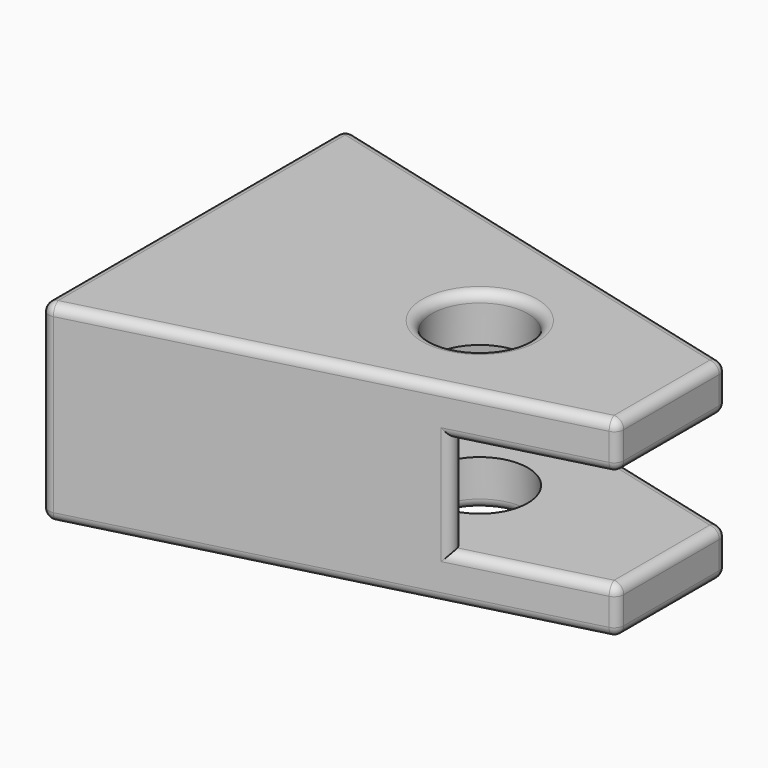
from build123d import *

# Parameters (mm, degrees)
SKETCH_R     = 2.5
PAD_DEPTH    = 10
SKETCH001_W  = 9
SKETCH001_H  = 5.15
POCKET_DEPTH = 16
FILLET_R     = 0.5
FILLET001_R  = 1


with BuildPart() as part:
    # Sketch → Pad (new body)
    with BuildSketch(Plane.XY):
        Polygon((-15, 10), (-15, -10), (10, -3.5), (10, 3.5), align=None)
        Circle(SKETCH_R, mode=Mode.SUBTRACT)
    extrude(amount=PAD_DEPTH)

    # Sketch001 (on Face3 of Pad) → Pocket (cut)
    with BuildSketch(Plane.YZ.offset(10)):
        with Locations((0, 5)):
            Rectangle(SKETCH001_W, SKETCH001_H)
    extrude(amount=-POCKET_DEPTH, mode=Mode.SUBTRACT)

    # Fillet
    fillet_edges = [part.edges().sort_by_distance(p)[0] for p in [
        (-2.5, 6.75, 0),
        (-15, 10, 5),
        (-2.5, 6.75, 10),
        (10, 3.5, 8.7875),
        (8.076923, 4, 7.575),
        (6.153846, 4.5, 5),
        (8.076923, 4, 2.425),
        (10, 3.5, 1.2125),
        (-15, 0, 0),
        (-2.5, -6.75, 0),
        (10, 0, 0),
        (-2.5, 0, 0),
        (-15, -10, 5),
        (-15, 0, 10),
        (10, -3.5, 1.2125),
        (8.076923, -4, 2.425),
        (6.153846, -4.5, 5),
        (8.076923, -4, 7.575),
        (10, -3.5, 8.7875),
        (-2.5, -6.75, 10),
        (10, 0, 10),
        (-2.5, 0, 10),
        (10, 0, 7.575),
        (10, 0, 2.425),
    ]]
    fillet(fillet_edges, radius=FILLET_R)

    # Fillet001
    fillet001_edges = [part.edges().sort_by_distance(p)[0] for p in [
        (-6, 0, 7.575),
        (-6, 4.5, 5),
        (-6, 0, 2.425),
        (-6, -4.5, 5),
    ]]
    fillet(fillet001_edges, radius=FILLET001_R)


solid = part.part
